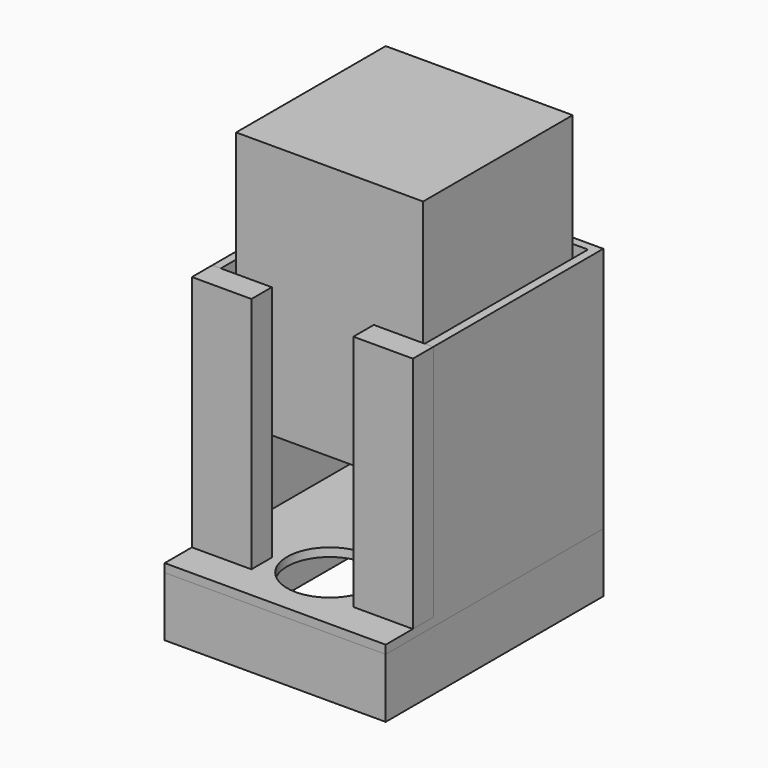
from build123d import *

# Parameters (mm, degrees)
F1_DEPTH  = 355.6
F2_R      = 63.5
F3_DEPTH  = 12.7
F4_W      = 330.2
F4_H      = 406.4
F5_DEPTH  = 88.9
F7_W      = 279.4
F7_H      = 279.4
F8_DEPTH  = 381
F10_DEPTH = 355.6
F11_W     = 304.8
F11_H     = 177.8
F12_DEPTH = 12.7


with BuildPart() as f1:
    # F0 (on Top) → F1 (new body)
    with BuildSketch(Plane.XY):
        Polygon((165.1, 158.75), (-165.1, 158.75), (-165.1, -158.75), (-152.4, -158.75), (-152.4, 146.05), (152.4, 146.05), (152.4, -158.75), (165.1, -158.75), align=None)
    extrude(amount=F1_DEPTH)

    # F2 (on face) → F3 (join)
    with BuildSketch(Plane(origin=(0, 0, 0), x_dir=(1, 0, 0), z_dir=(0, 0, -1))):
        Polygon((152.4, 158.75), (165.1, 158.75), (165.1, 247.65), (-165.1, 247.65), (-165.1, 158.75), (-152.4, 158.75), (-152.4, -146.05), (152.4, -146.05), align=None)
        with Locations((0, 146.05)):
            Circle(F2_R, mode=Mode.SUBTRACT)
        Polygon((-165.1, -158.75), (165.1, -158.75), (165.1, 158.75), (152.4, 158.75), (152.4, -146.05), (-152.4, -146.05), (-152.4, 158.75), (-165.1, 158.75), align=None)
    extrude(amount=F3_DEPTH)

    # F11 (on offset) → F12 (join)
    with BuildSketch(Plane.XY.offset(152.4)):
        with Locations((0, 57.15)):
            Rectangle(F11_W, F11_H)
    extrude(amount=-F12_DEPTH)


with BuildPart() as f5:
    # F4 (on face) → F5 (new body)
    with BuildSketch(Plane(origin=(0, 0, -12.7), x_dir=(1, 0, 0), z_dir=(0, 0, -1))):
        with Locations((0, 44.45)):
            Rectangle(F4_W, F4_H)
        Polygon((127, -120.65), (-127, -120.65), (-127, 209.55), (0, 209.55), (127, 209.55), align=None, mode=Mode.SUBTRACT)
    extrude(amount=F5_DEPTH)


with BuildPart() as f8:
    # F7 (on offset) → F8 (new body)
    with BuildSketch(Plane.XY.offset(152.4)):
        with Locations((0, -6.35)):
            Rectangle(F7_W, F7_H)
    extrude(amount=F8_DEPTH)


with BuildPart() as f10:
    # F9 (on face) → F10 (new body, through all)
    with BuildSketch(Plane.XY):
        Polygon((-165.1, -158.75), (-165.1, -196.85), (-76.2, -196.85), (-76.2, -158.75), (-152.4, -158.75), align=None)
    extrude(amount=F10_DEPTH)


with BuildPart() as f10b:
    # F9 (on face) → F10, piece 2 (new body, through all)
    with BuildSketch(Plane.XY):
        Polygon((76.2, -196.85), (165.1, -196.85), (165.1, -158.75), (152.4, -158.75), (76.2, -158.75), align=None)
    extrude(amount=F10_DEPTH)


solid = Compound([f1.part, f5.part, f8.part, f10.part, f10b.part])
